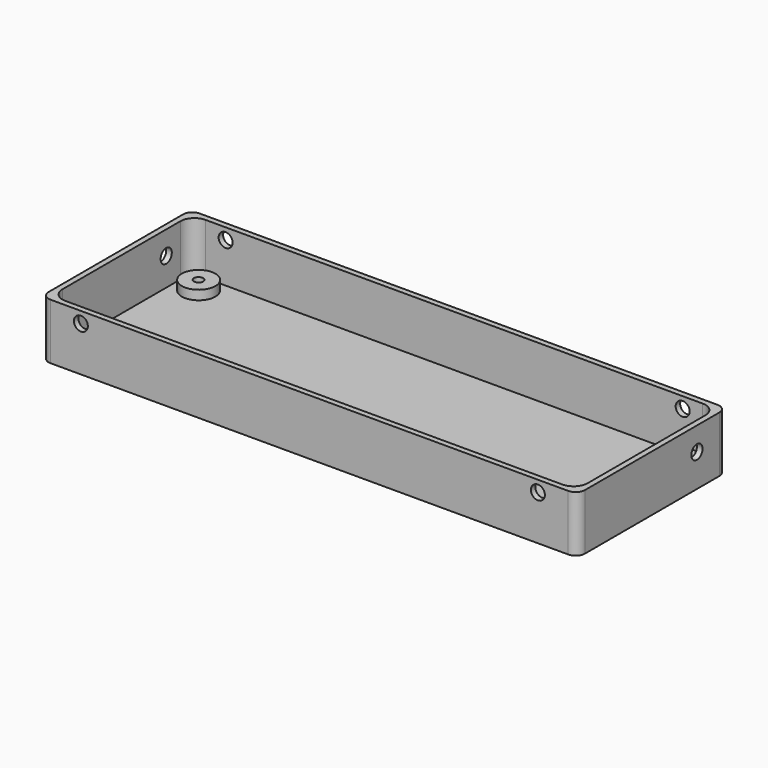
from build123d import *

# Parameters (mm, degrees)
SKETCH_W        = 115
SKETCH_H        = 40
PAD_DEPTH       = 12
SKETCH001_W     = 112.6
SKETCH001_H     = 37.6
POCKET_DEPTH    = 11
SKETCH002_R     = 3.6
PAD001_DEPTH    = 2
SKETCH004_R     = 1.5
POCKET001_DEPTH = 115.001
FILLET_R        = 3
FILLET001_R     = 2
SKETCH011_R     = 1.5
POCKET006_DEPTH = 40.001
SKETCH012_R     = 1
POCKET007_DEPTH = 6


with BuildPart() as part:
    # Sketch → Pad (new body)
    with BuildSketch(Plane.XY):
        with Locations((57.5, 20)):
            Rectangle(SKETCH_W, SKETCH_H)
    extrude(amount=PAD_DEPTH)

    # Sketch001 (on Face6 of Pad) → Pocket (cut)
    with BuildSketch(Plane.XY.offset(12)):
        with Locations((57.5, 20)):
            Rectangle(SKETCH001_W, SKETCH001_H)
    extrude(amount=-POCKET_DEPTH, mode=Mode.SUBTRACT)

    # Sketch002 (on Face11 of Pocket) → Pad001 (join)
    with BuildSketch(Plane.XY.offset(1)):
        with Locations((6.065, 34.605)):
            Circle(SKETCH002_R)
        with Locations((6.065, 5.395)):
            Circle(SKETCH002_R)
        with Locations((108.935, 34.605)):
            Circle(SKETCH002_R)
        with Locations((108.935, 5.395)):
            Circle(SKETCH002_R)
    extrude(amount=PAD001_DEPTH)

    # Sketch004 (on Face2 of Pad001) → Pocket001 (cut, through all)
    with BuildSketch(Plane(origin=(0, 0, 0), x_dir=(0, -1, 0), z_dir=(-1, 0, 0))):
        with Locations((-32, 7)):
            Circle(SKETCH004_R)
    extrude(amount=-POCKET001_DEPTH, mode=Mode.SUBTRACT)

    # Fillet
    fillet_edges = [part.edges().sort_by_distance(p)[0] for p in [
        (1.2, 38.8, 6.5),
        (1.2, 1.2, 6.5),
        (113.8, 1.2, 6.5),
        (113.8, 38.8, 6.5),
    ]]
    fillet(fillet_edges, radius=FILLET_R)

    # Fillet001
    fillet001_edges = [part.edges().sort_by_distance(p)[0] for p in [
        (115, 0, 6),
        (115, 40, 6),
        (0, 40, 6),
        (0, 0, 6),
    ]]
    fillet(fillet001_edges, radius=FILLET001_R)

    # Sketch011 (on Face2 of Fillet001) → Pocket006 (cut, through all)
    with BuildSketch(Plane.XZ):
        with Locations((8.5, 9.6)):
            Circle(SKETCH011_R)
        with Locations((106.5, 9.6)):
            Circle(SKETCH011_R)
    extrude(amount=-POCKET006_DEPTH, mode=Mode.SUBTRACT)

    # Sketch012 (on Face32 of Pocket006) → Pocket007 (cut)
    with BuildSketch(Plane.XY.offset(3)):
        with Locations((6.065, 34.605)):
            Circle(SKETCH012_R)
        with Locations((108.935, 34.605)):
            Circle(SKETCH012_R)
        with Locations((108.935, 5.395)):
            Circle(SKETCH012_R)
        with Locations((6.065, 5.395)):
            Circle(SKETCH012_R)
    extrude(amount=-POCKET007_DEPTH, mode=Mode.SUBTRACT)


solid = part.part
